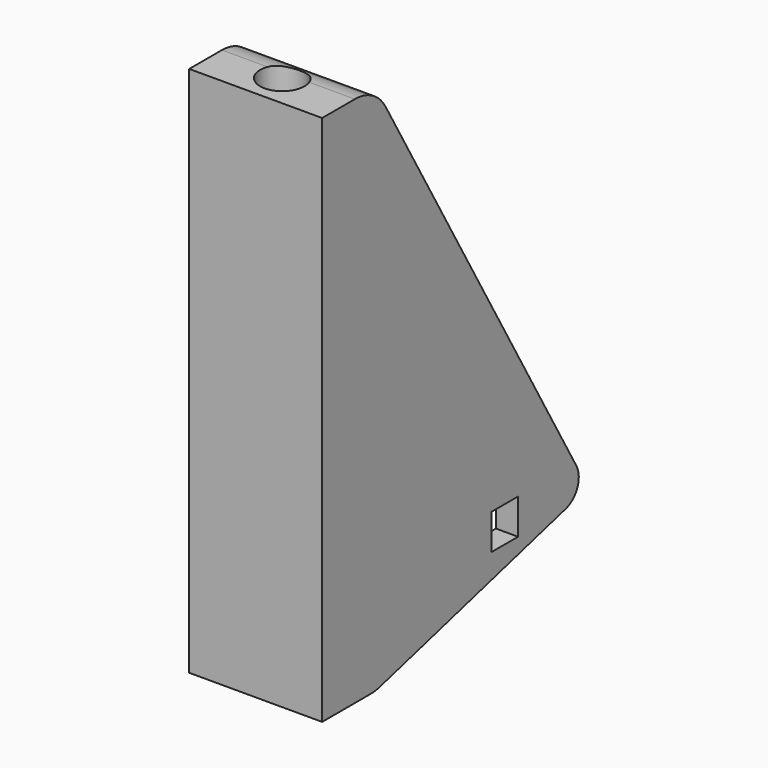
from build123d import *

# Parameters (mm, degrees)
F1_DEPTH      = 19.05
F3_D          = 6.35
F5_DEPTH      = 6.35
F5_DEPTH_BACK = 10.2098643316
F6_W          = 4.7625
F6_H          = 5.08
F7_DEPTH      = 25.4
F8_R          = 1.5875
F9_DEPTH      = 6.35
F11_START     = 3.175
F11_DEPTH     = 15.875
F13_DEPTH     = 19.0510001


with BuildPart() as f1:
    # F0 (on Right) → F1 (new body)
    with BuildSketch(Plane.YZ):
        with BuildLine():
            ThreePointArc((-3.9967504682, -1.0709260603), (-1.8851834207, 0.7808685404), (-2.0688702794, 3.5833884382))
            Line((-2.0688702794, 3.5833884382), (-36.2669128953, 62.8161357684))
            ThreePointArc((-36.2669128953, 62.8161357684), (-38.5911742094, 65.1403970824), (-41.7661742094, 65.9911357684))
            Line((-41.7661742094, 65.9911357684), (-47.625, 65.9911357684))
            Line((-47.625, 65.9911357684), (-47.625, -10.2088642316))
            Line((-47.625, -10.2088642316), (-38.9359933597, -10.2088642316))
            ThreePointArc((-38.9359933597, -10.2088642316), (-38.1071520391, -10.1545391013), (-37.2924924233, -9.9924932286))
            Line((-37.2924924233, -9.9924932286), (-3.9967504682, -1.0709260603))
        make_face()
    extrude(amount=F1_DEPTH)

    # F3 (through all)
    with Locations(Plane(origin=(0, 0, -10.2088642316), x_dir=(1, 0, 0), z_dir=(0, 0, -1))):
        with Locations((9.525, 42.8625)):
            Hole(F3_D / 2)

    # F4 (on Top) → F5 (cut, two sides)
    with BuildSketch(Plane.XY) as f5_sk:
        with BuildLine():
            Line((15.8740343467, -1.5875), (0, -1.5875))
            ThreePointArc((0, -1.5875), (-11.1632427706, -28.7495561195), (15.8740343467, -17.2874041455))
            Line((15.8740343467, -17.2874041455), (15.8740343467, -10.9579507262))
            Line((15.8740343467, -10.9579507262), (15.8740343467, -1.5875))
        make_face()
    extrude(amount=F5_DEPTH, mode=Mode.SUBTRACT)
    extrude(f5_sk.sketch, amount=-F5_DEPTH_BACK, mode=Mode.SUBTRACT)

    # F6 (on face) → F7 (cut)
    with BuildSketch(Plane(origin=(15.8740343467, 0, 0), x_dir=(0, -1, 0), z_dir=(-1, 0, 0))):
        with Locations((14.9061541455, 1.42875)):
            Rectangle(F6_W, F6_H)
    extrude(amount=-F7_DEPTH, mode=Mode.SUBTRACT)

    # F8 (on face) → F9 (cut)
    with BuildSketch(Plane(origin=(0, 0, 0), x_dir=(0, -1, 0), z_dir=(-1, 0, 0))):
        with Locations((36.5125, 3.96875)):
            Circle(F8_R)
    extrude(amount=-F9_DEPTH, mode=Mode.SUBTRACT)

    # F10 (on face) → F11 (join)
    with BuildSketch(Plane(origin=(0, 0, 6.35), x_dir=(1, 0, 0), z_dir=(0, 0, -1)).offset(F11_START)):
        with BuildLine():
            ThreePointArc((1.5875, 25.2249041455), (3.4473719395, 20.7347760849), (7.9375, 18.8749041455))
            Line((7.9375, 18.8749041455), (15.8120441288, 18.8749041455))
            ThreePointArc((15.8120441288, 18.8749041455), (11.2873318483, 28.6254639767), (1.5875, 33.2579255641))
            Line((1.5875, 33.2579255641), (1.5875, 25.2249041455))
        make_face()
    extrude(amount=F11_DEPTH)

    # F12 (on face) → F13 (cut, through all)
    with BuildSketch(Plane.YZ.offset(19.05)):
        Polygon((-14.8947556834, -3.9910377568), (-34.9698544916, -9.3701442705), (-35.4003421962, -17.2549132258), (-14.8947556834, -17.2549132258), align=None)
    extrude(amount=-F13_DEPTH, mode=Mode.SUBTRACT)


solid = f1.part
